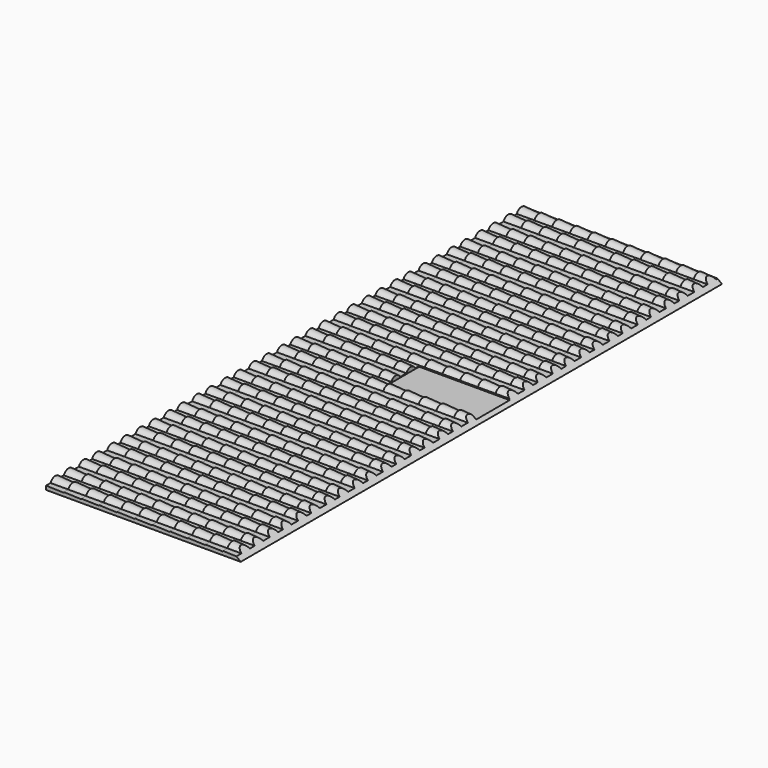
from build123d import *

# Parameters (mm, degrees)
CONE_ANGLE      = 180
PAD_DEPTH       = 6.4
ARRAY_X_COUNT   = 11
ARRAY_X_PITCH   = 3.2
ARRAY_Y_COUNT   = 17
ARRAY_Y_PITCH   = 6.4
SKETCH_W        = 7.6
SKETCH_H        = 2
POCKET_DEPTH    = 17
POCKET001_DEPTH = 108.801


with BuildPart() as obj1:
    # Cone → Cone (revolve)
    with BuildSketch(Plane(origin=(0, -4.3, 0.2), x_dir=(0, 1, 0), z_dir=(0, 0, -1))):
        Polygon((0, 0), (1.2, 0), (1, 3.2), (0, 3.2), align=None)
    revolve(axis=Axis((0, -4.3, 0.2), (1, 0, 0)), revolution_arc=CONE_ANGLE)


with BuildPart() as obj2:
    # Clone base: copy of obj1
    add(obj1.part)


with BuildPart() as obj2_1:
    # Clone placement: moved
    add(obj2.part.moved(Location((0, 3, 0))))


with BuildPart() as pocket001:
    # Sketch001 → Pad (new body)
    with BuildSketch(Plane.XZ):
        Polygon((0, 0.7), (0, 0), (3.2, 0), (3.2, 0.6), align=None)
    extrude(amount=PAD_DEPTH)

    # Fusion: union obj1, obj2
    add(obj1.part)
    add(obj2_1.part)

    # Array X: Pocket001 ×11


with BuildPart() as pocket001_1:
    add(pocket001.part)
    with Locations(*[(i * ARRAY_X_PITCH, 0, 0) for i in range(1, ARRAY_X_COUNT)]):
        add(pocket001.part)

    # Array Y: Pocket001 ×17


with BuildPart() as pocket001_2:
    add(pocket001_1.part)
    with Locations(*[(0, i * ARRAY_Y_PITCH, 0) for i in range(1, ARRAY_Y_COUNT)]):
        add(pocket001_1.part)

    # Sketch → Pocket (cut)
    with BuildSketch(Plane.YZ.offset(35.2)):
        with Locations((51.4, 1.5)):
            Rectangle(SKETCH_W, SKETCH_H)
    extrude(amount=-POCKET_DEPTH, mode=Mode.SUBTRACT)

    # Sketch002 → Pocket001 (cut, through all)
    with BuildSketch(Plane.XZ.offset(6.4)):
        Polygon((10.2, 20), (35.2, 20), (35.2, 0), align=None)
    extrude(amount=-POCKET001_DEPTH, mode=Mode.SUBTRACT)


solid = pocket001_2.part
